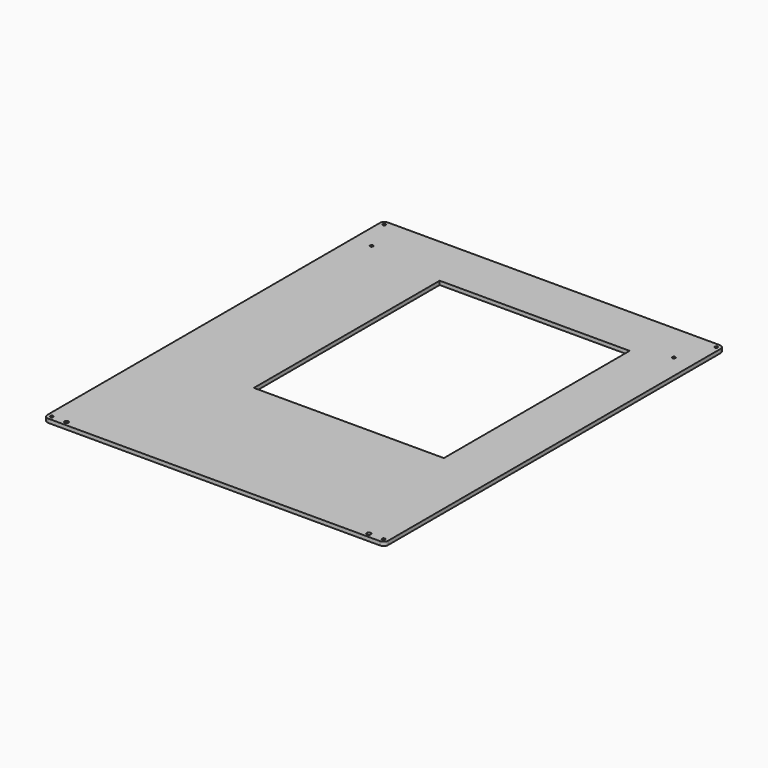
from build123d import *

# Parameters (mm, degrees)
F0_W     = 303.70272
F0_H     = 378.451567
F1_DEPTH = 3.41884
F2_R     = 3.96875
F3_R     = 1.35255
F3_W     = 169.31132
F3_H     = 206.951268
F4_DEPTH = 3.41884
F5_R     = 1.8288
F6_DEPTH = 3.41884


with BuildPart() as f1:
    # F0 (on Top) → F1 (new body)
    with BuildSketch(Plane.XY):
        with Locations((-151.85136, -189.225783)):
            Rectangle(F0_W, F0_H)
    extrude(amount=F1_DEPTH)

    # F2
    f2_edges = [f1.edges().sort_by_distance(p)[0] for p in [
        (-303.70272, 0, 1.70942),
        (-303.70272, -378.451567, 1.70942),
        (0, -378.451567, 1.70942),
        (0, 0, 1.70942),
    ]]
    fillet(f2_edges, radius=F2_R)

    # F3 (on face) → F4 (cut, through all)
    with BuildSketch(Plane.XY.offset(3.41884)):
        with Locations((-299.73397, -3.96875)):
            Circle(F3_R)
        with Locations((-3.96875, -3.96875)):
            Circle(F3_R)
        with Locations((-299.73397, -374.482817)):
            Circle(F3_R)
        with Locations((-3.96875, -374.482817)):
            Circle(F3_R)
        with Locations((-286.54629, -34.632519)):
            Circle(F3_R)
        with Locations((-17.15643, -34.632519)):
            Circle(F3_R)
        with Locations((-132.182794, -149.463223)):
            Rectangle(F3_W, F3_H)
    extrude(amount=-F4_DEPTH, mode=Mode.SUBTRACT)

    # F5 (on face) → F6 (cut, through all)
    with BuildSketch(Plane.XY.offset(3.41884)):
        with Locations((-286.54629, -374.482817)):
            Circle(F5_R)
        with Locations((-17.15643, -374.482817)):
            Circle(F5_R)
    extrude(amount=-F6_DEPTH, mode=Mode.SUBTRACT)


solid = f1.part
